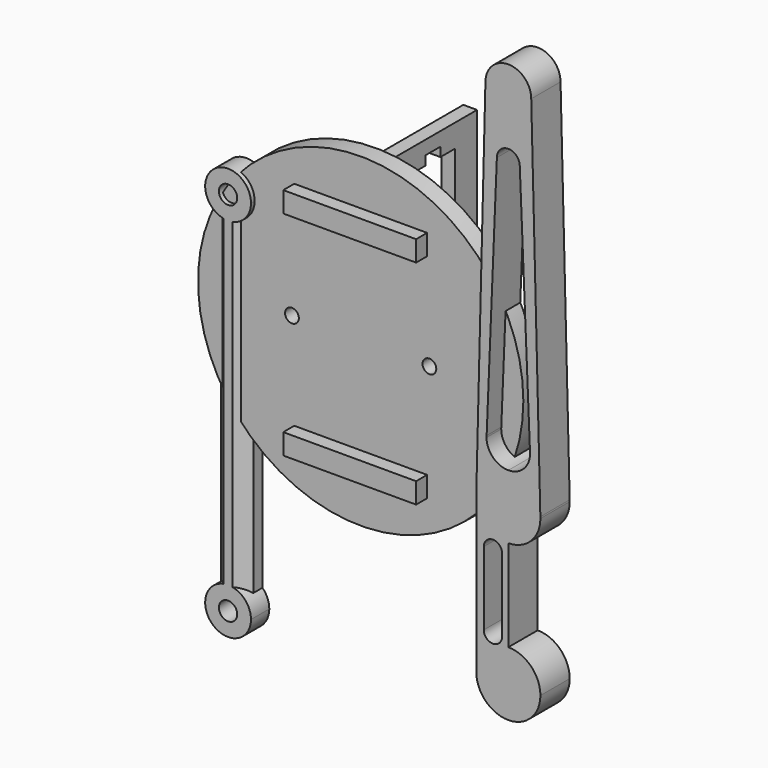
from build123d import *

# Parameters (mm, degrees)
F0_R           = 35.5
F0_R_2         = 1.5
F1_DEPTH       = 4
F2_DEPTH       = 7
F5_DEPTH       = 5
F6_SIZE        = 2.5
F7_D           = 4
F7_DEPTH       = 6
F7_CBORE_D     = 6
F7_CBORE_DEPTH = 0
F7_TIP         = 1.2017212381
F3_W           = 24
F3_H           = 34
F8_DEPTH       = 3
F10_DEPTH      = 8


with BuildPart() as f1:
    # F0 (on Front) → F1 (new body)
    with BuildSketch(Plane.XZ):
        Circle(F0_R)
        Polygon((14.5, -21), (14.5, -25.5), (-14.5, -25.5), (-14.5, -21), (0, -21), align=None, mode=Mode.SUBTRACT)
        with Locations((-15, 0)):
            Circle(F0_R_2, mode=Mode.SUBTRACT)
        with Locations((15, 0)):
            Circle(F0_R_2, mode=Mode.SUBTRACT)
        Polygon((14.5, 21), (0, 21), (-14.5, 21), (-14.5, 25.5), (14.5, 25.5), align=None, mode=Mode.SUBTRACT)
    extrude(amount=F1_DEPTH)

    # F0 (on Front) → F2 (join)
    with BuildSketch(Plane.XZ):
        Polygon((-14.5, -25.5), (14.5, -25.5), (14.5, -21), (0, -21), (-14.5, -21), align=None)
        Polygon((-14.5, 21), (0, 21), (14.5, 21), (14.5, 25.5), (-14.5, 25.5), align=None)
    extrude(amount=F2_DEPTH)


with BuildPart() as f5:
    # F4 (on Front) → F5 (new body)
    with BuildSketch(Plane.XZ):
        with BuildLine():
            ThreePointArc((-24.6447846293, -57.0497911485), (-28.1447846293, -55.6205053627), (-31.6447846293, -57.0497911485))
            Line((-31.6447846293, -57.0497911485), (-31.6447846293, -60.6205053627))
            Line((-31.6447846293, -60.6205053627), (-28.1447846293, -60.6205053627))
            Line((-28.1447846293, -60.6205053627), (-24.6447846293, -60.6205053627))
            Line((-24.6447846293, -60.6205053627), (-24.6447846293, -57.0497911485))
        make_face()
        with BuildLine():
            ThreePointArc((-24.6447846293, 15.808780423), (-28.1447846293, 14.3794946373), (-31.6447846293, 15.808780423))
            Line((-31.6447846293, 15.808780423), (-31.6447846293, -57.0497911485))
            ThreePointArc((-31.6447846293, -57.0497911485), (-28.1447846293, -55.6205053627), (-24.6447846293, -57.0497911485))
            Line((-24.6447846293, -57.0497911485), (-24.6447846293, 15.808780423))
        make_face()
        with BuildLine():
            Line((-31.6447846293, 15.808780423), (-31.6447846293, 19.3794946373))
            Line((-31.6447846293, 19.3794946373), (-28.1447846293, 19.3794946373))
            Line((-28.1447846293, 19.3794946373), (-24.6447846293, 19.3794946373))
            Line((-24.6447846293, 19.3794946373), (-24.6447846293, 15.808780423))
            ThreePointArc((-24.6447846293, 15.808780423), (-23.5350124007, 17.4430029641), (-23.1447846293, 19.3794946373))
            ThreePointArc((-23.1447846293, 19.3794946373), (-30.0812763024, 23.9892668659), (-31.6447846293, 15.808780423))
        make_face()
        with BuildLine():
            Line((-28.1447846293, 19.3794946373), (-31.6447846293, 19.3794946373))
            Line((-31.6447846293, 19.3794946373), (-31.6447846293, 15.808780423))
            ThreePointArc((-31.6447846293, 15.808780423), (-28.1447846293, 14.3794946373), (-24.6447846293, 15.808780423))
            Line((-24.6447846293, 15.808780423), (-24.6447846293, 19.3794946373))
            Line((-24.6447846293, 19.3794946373), (-28.1447846293, 19.3794946373))
        make_face()
        with BuildLine():
            Line((-31.6447846293, -60.6205053627), (-31.6447846293, -57.0497911485))
            ThreePointArc((-31.6447846293, -57.0497911485), (-30.0812763024, -65.2302775914), (-23.1447846293, -60.6205053627))
            ThreePointArc((-23.1447846293, -60.6205053627), (-23.5350124007, -58.6840136896), (-24.6447846293, -57.0497911485))
            Line((-24.6447846293, -57.0497911485), (-24.6447846293, -60.6205053627))
            Line((-24.6447846293, -60.6205053627), (-28.1447846293, -60.6205053627))
            Line((-28.1447846293, -60.6205053627), (-31.6447846293, -60.6205053627))
        make_face()
    extrude(amount=F5_DEPTH)

    # F6
    f6_edges = [f5.edges().sort_by_distance(p)[0] for p in [
        (-31.644785, -5, -20.620505),
        (-24.644785, -5, -20.620505),
    ]]
    chamfer(f6_edges, length=F6_SIZE)

    # F7
    with Locations(Plane(origin=(0, 0, 0), x_dir=(1, 0, 0), z_dir=(0, 1, 0))):
        with Locations((-28.1447846293, -19.3794946373), (-28.1447846293, 60.6205053627)):
            CounterBoreHole(F7_D / 2, F7_CBORE_D / 2, F7_CBORE_DEPTH, depth=F7_DEPTH)
            with Locations((0, 0, -(F7_DEPTH + F7_TIP / 2))):  # 118° drill point
                Cone(0, F7_D / 2, F7_TIP, mode=Mode.SUBTRACT)


with BuildPart() as f8:
    # F3 (on Right) → F8 (new body)
    with BuildSketch(Plane.YZ):
        with Locations((12, 17)):
            Rectangle(F3_W, F3_H)
        Polygon((6, 5), (6, 29), (10, 29), (10, 31), (14, 31), (14, 29), (18, 29), (18, 5), align=None, mode=Mode.SUBTRACT)
    extrude(amount=F8_DEPTH)


with BuildPart() as f10:
    # F9 (on Front) → F10 (new body)
    with BuildSketch(Plane.XZ):
        with BuildLine():
            Line((35.4225598276, 52.5783236325), (35.4225598276, 56.3111443222))
            ThreePointArc((35.4225598276, 56.3111443222), (31.8870259216, 57.7756104162), (30.4225598276, 61.3111443222))
            Line((30.4225598276, 61.3111443222), (28.4313043622, -18.3390742912))
            ThreePointArc((28.4313043622, -18.3390742912), (30.5980634656, -13.616949246), (35.4225598276, -11.6888556778))
            ThreePointArc((35.4225598276, -11.6888556778), (32.0638026169, -10.2976128885), (30.6725598276, -6.9388556778))
            ThreePointArc((30.6725598276, -6.9388556778), (30.6766000709, -6.7429833017), (30.6887139277, -6.5474441348))
            Line((30.6887139277, -6.5474441348), (32.9225598276, 47.5783236325))
            ThreePointArc((32.9225598276, 47.5783236325), (33.6547928746, 49.3460905854), (35.4225598276, 50.0783236325))
            Line((35.4225598276, 50.0783236325), (35.4225598276, 52.5783236325))
        make_face()
        with BuildLine():
            Line((30.4225598276, 61.3111443222), (35.4225598276, 61.3111443222))
            Line((35.4225598276, 61.3111443222), (40.4225598276, 61.3111443222))
            ThreePointArc((40.4225598276, 61.3111443222), (35.4225598276, 66.3111443222), (30.4225598276, 61.3111443222))
        make_face()
        with BuildLine():
            Line((35.4225598276, 56.3111443222), (35.4225598276, 61.3111443222))
            Line((35.4225598276, 61.3111443222), (30.4225598276, 61.3111443222))
            ThreePointArc((30.4225598276, 61.3111443222), (31.8870259216, 57.7756104162), (35.4225598276, 56.3111443222))
        make_face()
        with BuildLine():
            Line((40.4225598276, 61.3111443222), (35.4225598276, 61.3111443222))
            Line((35.4225598276, 61.3111443222), (35.4225598276, 56.3111443222))
            ThreePointArc((35.4225598276, 56.3111443222), (38.9580937335, 57.7756104162), (40.4225598276, 61.3111443222))
        make_face()
        with BuildLine():
            ThreePointArc((40.4225598276, 61.3111443222), (38.9580937335, 57.7756104162), (35.4225598276, 56.3111443222))
            Line((35.4225598276, 56.3111443222), (35.4225598276, 52.5783236325))
            Line((35.4225598276, 52.5783236325), (35.4225598276, 50.0783236325))
            ThreePointArc((35.4225598276, 50.0783236325), (37.1903267805, 49.3460905854), (37.9225598276, 47.5783236325))
            Line((37.9225598276, 47.5783236325), (40.1452636043, -6.4303588366))
            ThreePointArc((40.1452636043, -6.4303588366), (40.1657308628, -6.6842412039), (40.1725598276, -6.9388556778))
            ThreePointArc((40.1725598276, -6.9388556778), (40.1721888932, -6.9982167674), (40.171076148, -7.0575685859))
            ThreePointArc((40.171076148, -7.0575685859), (38.739080119, -10.3393252273), (35.4225598276, -11.6888556778))
            ThreePointArc((35.4225598276, -11.6888556778), (40.2470561895, -13.616949246), (42.4138152929, -18.3390742912))
            Line((42.4138152929, -18.3390742912), (40.4225598276, 61.3111443222))
        make_face()
        with BuildLine():
            ThreePointArc((35.4225598276, -11.6888556778), (30.5980634656, -13.616949246), (28.4313043622, -18.3390742912))
            Line((28.4313043622, -18.3390742912), (28.4225598276, -18.6888556778))
            Line((28.4225598276, -18.6888556778), (35.4225598276, -18.6888556778))
            Line((35.4225598276, -18.6888556778), (35.4225598276, -11.6888556778))
        make_face()
        with BuildLine():
            Line((42.4225598276, -18.6888556778), (42.4138152929, -18.3390742912))
            ThreePointArc((42.4138152929, -18.3390742912), (40.2470561895, -13.616949246), (35.4225598276, -11.6888556778))
            Line((35.4225598276, -11.6888556778), (35.4225598276, -18.6888556778))
            Line((35.4225598276, -18.6888556778), (42.4225598276, -18.6888556778))
        make_face()
        with BuildLine():
            ThreePointArc((35.4225598276, -25.6888556778), (40.3723072959, -23.6386031461), (42.4225598276, -18.6888556778))
            Line((42.4225598276, -18.6888556778), (35.4225598276, -18.6888556778))
            Line((35.4225598276, -18.6888556778), (35.4225598276, -25.6888556778))
        make_face()
        with BuildLine():
            Line((35.4225598276, -18.6888556778), (28.4225598276, -18.6888556778))
            ThreePointArc((28.4225598276, -18.6888556778), (30.4728123593, -23.6386031461), (35.4225598276, -25.6888556778))
            Line((35.4225598276, -25.6888556778), (35.4225598276, -18.6888556778))
        make_face()
        with BuildLine():
            ThreePointArc((35.4225598276, -25.6888556778), (30.4728123593, -23.6386031461), (28.4225598276, -18.6888556778))
            Line((28.4225598276, -18.6888556778), (28.4225598276, -52.6888556778))
            ThreePointArc((28.4225598276, -52.6888556778), (30.4728123593, -47.7391082095), (35.4225598276, -45.6888556778))
            Line((35.4225598276, -45.6888556778), (35.4225598276, -43.6571886837))
            Line((35.4225598276, -43.6571886837), (35.4225598276, -26.6888556778))
            Line((35.4225598276, -26.6888556778), (35.4225598276, -25.6888556778))
        make_face()
        with BuildLine():
            Line((34.0675652474, -28.1017411649), (34.0675652474, -44.1017411649))
            ThreePointArc((34.0675652474, -44.1017411649), (32.0675652474, -46.1017411649), (30.0675652474, -44.1017411649))
            Line((30.0675652474, -44.1017411649), (30.0675652474, -28.1017411649))
            ThreePointArc((30.0675652474, -28.1017411649), (32.0675652474, -26.1017411649), (34.0675652474, -28.1017411649))
        make_face(mode=Mode.SUBTRACT)
        with BuildLine():
            ThreePointArc((35.4225598276, -45.6888556778), (30.4728123593, -47.7391082095), (28.4225598276, -52.6888556778))
            Line((28.4225598276, -52.6888556778), (35.4225598276, -52.6888556778))
            Line((35.4225598276, -52.6888556778), (35.4225598276, -45.6888556778))
        make_face()
        with BuildLine():
            Line((35.4225598276, -52.6888556778), (42.4225598276, -52.6888556778))
            ThreePointArc((42.4225598276, -52.6888556778), (40.3723072959, -47.7391082095), (35.4225598276, -45.6888556778))
            Line((35.4225598276, -45.6888556778), (35.4225598276, -52.6888556778))
        make_face()
        with BuildLine():
            Line((35.4225598276, -52.6888556778), (28.4225598276, -52.6888556778))
            ThreePointArc((28.4225598276, -52.6888556778), (35.4225598276, -59.6888556778), (42.4225598276, -52.6888556778))
            Line((42.4225598276, -52.6888556778), (35.4225598276, -52.6888556778))
        make_face()
    extrude(amount=F10_DEPTH)


solid = Compound([f1.part, f5.part, f8.part, f10.part])
